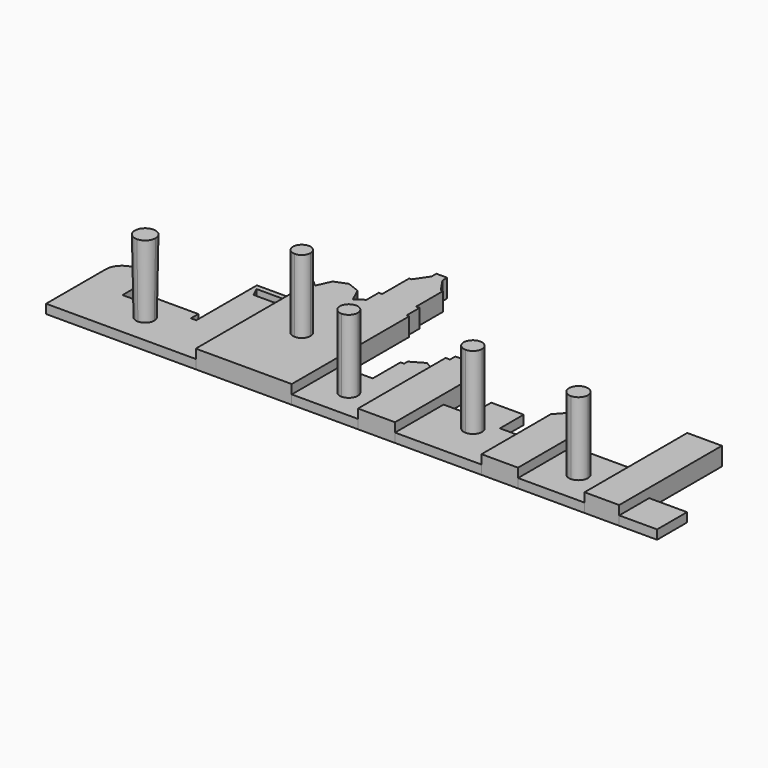
from build123d import *

# Parameters (mm, degrees)
F1_DEPTH = 3.175
F2_DEPTH = 1.5875
F0_W     = 5.639936775
F0_H     = 10.5457017198
F0_W_2   = 4.6999491751
F0_W_3   = 4.6999529004
F0_H_2   = 9.8727531731
F0_W_4   = 11.5607306361
F0_H_3   = 11.8103343993
F0_W_5   = 6.588049233
F0_H_4   = 6.5041691996
F8_DEPTH = 12.7
F8_TAPER = -1
F9_DEPTH = 12.7


with BuildPart() as f1:
    # F0 (on Top) → F1 (new body)
    with BuildSketch(Plane.XY):
        Polygon((34.7140654922, 25.5283378065), (34.7140654922, 0), (42.703974992, 0), (42.703974992, 10.5457017198), (42.703974992, 25.5283378065), (42.2610007226, 25.5283378065), (42.2610007226, 28.3491015434), (41.6635014117, 28.3491015434), (41.6635014117, 34.2090092599), (41.2480793893, 34.2090092599), (39.6537408233, 36.570508033), (39.6537408233, 37.602443248), (38.7090202421, 37.602443248), (37.7642996609, 37.602443248), (37.7642996609, 36.570508033), (36.1699610949, 34.2090092599), (35.7545390725, 34.2090092599), (35.7545390725, 28.3491015434), (35.1570397615, 28.3491015434), (35.1570397615, 25.5283378065), align=None)
        Polygon((26.0191634297, 22.0926180482), (26.0191634297, 0), (34.7140654922, 0), (34.7140654922, 25.5283378065), (33.641166985, 24.588348344), (32.5249303132, 27.027560398), (30.3666144609, 27.8783105314), (28.2082986087, 27.027560398), (27.0920619369, 24.588348344), (26.0191634297, 25.5283378065), align=None)
    extrude(amount=F1_DEPTH)


with BuildPart() as f1b:
    # F0 (on Top) → F1, piece 2 (new body)
    with BuildSketch(Plane.XY):
        Polygon((75.7002681494, 9.8727531731), (75.7002681494, 0), (82.0451974869, 0), (82.0451974869, 11.8103343993), (82.0451974869, 15.0426970795), (78.8727328181, 18.6240728945), (75.7002681494, 15.0426970795), align=None)
    extrude(amount=F1_DEPTH)


with BuildPart() as f1c:
    # F0 (on Top) → F1, piece 3 (new body)
    with BuildSketch(Plane.XY):
        Polygon((93.605928123, 11.8103343993), (93.605928123, 0), (99.6332839131, 0), (99.6332839131, 6.5041691996), (99.6332839131, 22.3209001124), (93.605928123, 22.3209001124), align=None)
    extrude(amount=F1_DEPTH)


with BuildPart() as f1d:
    # F0 (on Top) → F1, piece 4 (new body)
    with BuildSketch(Plane.XY):
        Polygon((54.2188473046, 15.0426970795), (54.2188473046, 0), (60.6604330242, 0), (60.6604330242, 10.5457017198), (60.6604330242, 15.0426970795), (60.6604330242, 19.051130861), (59.905834496, 19.051130861), (59.905834496, 20.2126391232), (54.9734458327, 20.2126391232), (54.9734458327, 19.051130861), (54.2188473046, 19.051130861), align=None)
    extrude(amount=F1_DEPTH)


with BuildPart() as f2:
    # F0 (on Top) → F2 (new body)
    with BuildSketch(Plane.XY):
        with BuildLine():
            Line((0, 12.9277203232), (0, 0))
            Line((0, 0), (5.3393961862, 0))
            Line((5.3393961862, 0), (6.514382083, 0))
            Line((6.514382083, 0), (8.6293583736, 0))
            Line((8.6293583736, 0), (16.6192688048, 0))
            Line((16.6192688048, 0), (18.0292539299, 0))
            Line((18.0292539299, 0), (18.9692433923, 0))
            Line((18.9692433923, 0), (26.0191634297, 0))
            Line((26.0191634297, 0), (26.0191634297, 22.0926180482))
            Line((26.0191634297, 22.0926180482), (18.9692433923, 22.0926180482))
            Line((18.9692433923, 22.0926180482), (18.9692433923, 8.9327655733))
            Line((18.9692433923, 8.9327655733), (18.0292539299, 8.9327655733))
            Line((18.0292539299, 8.9327655733), (18.0292539299, 10.5457017198))
            Line((18.0292539299, 10.5457017198), (8.6293583736, 10.5457017198))
            Line((8.6293583736, 10.5457017198), (8.6293583736, 8.4627699107))
            Line((8.6293583736, 8.4627699107), (6.514382083, 8.4627699107))
            Line((6.514382083, 8.4627699107), (6.514382083, 12.9277203232))
            ThreePointArc((6.514382083, 12.9277203232), (5.530064061, 15.0818741703), (3.2571910415, 15.7476887107))
            ThreePointArc((3.2571910415, 15.7476887107), (0.984318022, 15.0818741703), (0, 12.9277203232))
        make_face()
        Polygon((20.3642528504, 19.6101777256), (19.593283534, 21.2151966989), (25.4579409957, 21.2151966989), (24.6869716793, 19.6101777256), align=None, mode=Mode.SUBTRACT)
    extrude(amount=F2_DEPTH)

    # F3 (on face) → F8 (join)
    with BuildSketch(Plane.XY.offset(1.5875)):
        with BuildLine():
            ThreePointArc((13.0095817149, 6.8557492698), (11.426683305, 5.2728508599), (13.0095817149, 3.68995245))
            ThreePointArc((13.0095817149, 3.68995245), (14.1288599144, 4.1535726604), (14.5924801248, 5.2728508599))
            ThreePointArc((14.5924801248, 5.2728508599), (14.1288599144, 6.3921290595), (13.0095817149, 6.8557492698))
        make_face()
    extrude(amount=F8_DEPTH, taper=F8_TAPER)


with BuildPart() as f2b:
    # F0 (on Top) → F2, piece 2 (new body)
    with BuildSketch(Plane.XY):
        with Locations((45.5239433795, 5.2728508599)):
            Rectangle(F0_W, F0_H)
        Polygon((48.343911767, 10.5457017198), (48.343911767, 0), (54.2188473046, 0), (54.2188473046, 15.0426970795), (54.1941193212, 15.0426970795), (54.1941193212, 16.6012711681), (53.5775407698, 16.6012711681), (53.5775407698, 17.3716027477), (51.2690155441, 18.6972189695), (48.9604903184, 17.3716027477), (48.9604903184, 16.6012711681), (48.343911767, 16.6012711681), (48.343911767, 15.0426970795), align=None)
    extrude(amount=F2_DEPTH)


with BuildPart() as f2c:
    # F0 (on Top) → F2, piece 3 (new body)
    with BuildSketch(Plane.XY):
        Polygon((65.3603821993, 10.5457017198), (65.3603821993, 0), (71.000315249, 0), (71.000315249, 9.8727531731), (71.000315249, 15.0426970795), (65.3603821993, 15.0426970795), align=None)
        with Locations((63.0104076117, 5.2728508599)):
            Rectangle(F0_W_2, F0_H)
        with Locations((73.3502916992, 4.9363765866)):
            Rectangle(F0_W_3, F0_H_2)
    extrude(amount=F2_DEPTH)


with BuildPart() as f2d:
    # F0 (on Top) → F2, piece 4 (new body)
    with BuildSketch(Plane.XY):
        with Locations((87.8255628049, 5.9051671997)):
            Rectangle(F0_W_4, F0_H_3)
    extrude(amount=F2_DEPTH)


with BuildPart() as f2e:
    # F0 (on Top) → F2, piece 5 (new body)
    with BuildSketch(Plane.XY):
        with Locations((102.9273085296, 3.2520845998)):
            Rectangle(F0_W_5, F0_H_4)
    extrude(amount=F2_DEPTH)


with BuildPart() as f9:
    # F4 (on face) → F9 (new body)
    with BuildSketch(Plane.XY.offset(3.175)):
        with BuildLine():
            ThreePointArc((34.3615692109, 14.1366351541), (32.8346881725, 12.6097541157), (34.3615692109, 11.0828730774))
            ThreePointArc((34.3615692109, 11.0828730774), (35.4412371472, 11.5300861795), (35.8884502492, 12.6097541157))
            ThreePointArc((35.8884502492, 12.6097541157), (35.4412371472, 13.689422052), (34.3615692109, 14.1366351541))
        make_face()
    extrude(amount=F9_DEPTH)


with BuildPart() as f9b:
    # F5 (on face) → F9, piece 2 (new body)
    with BuildSketch(Plane.XY.offset(1.5875)):
        with BuildLine():
            ThreePointArc((48.3852341409, 6.8369721577), (46.8385401599, 5.2554235431), (48.4200887745, 3.7087295621))
            ThreePointArc((48.4200887745, 3.7087295621), (49.5148753028, 4.1729601798), (49.9668798393, 5.2728508599))
            ThreePointArc((49.9668798393, 5.2728508599), (49.5025521377, 6.3850647051), (48.3852341409, 6.8369721577))
        make_face()
    extrude(amount=F9_DEPTH)


with BuildPart() as f9c:
    # F6 (on face) → F9, piece 3 (new body)
    with BuildSketch(Plane.XY.offset(1.5875)):
        with BuildLine():
            ThreePointArc((68.1803487241, 9.1075093619), (66.5941879019, 7.5213485397), (68.1803487241, 5.9351877175))
            ThreePointArc((68.1803487241, 5.9351877175), (69.3019337976, 6.3997634663), (69.7665095463, 7.5213485397))
            ThreePointArc((69.7665095463, 7.5213485397), (69.3019337976, 8.6429336132), (68.1803487241, 9.1075093619))
        make_face()
    extrude(amount=F9_DEPTH)


with BuildPart() as f9d:
    # F7 (on face) → F9, piece 4 (new body)
    with BuildSketch(Plane.XY.offset(1.5875)):
        with BuildLine():
            ThreePointArc((87.8255628049, 7.5594574065), (86.1712725981, 5.9051671997), (87.8255628049, 4.2508769928))
            ThreePointArc((87.8255628049, 4.2508769928), (88.9953226282, 4.7354073764), (89.4798530118, 5.9051671997))
            ThreePointArc((89.4798530118, 5.9051671997), (88.9953226282, 7.074927023), (87.8255628049, 7.5594574065))
        make_face()
    extrude(amount=F9_DEPTH)


solid = Compound([f1.part, f1b.part, f1c.part, f1d.part, f2.part, f2b.part, f2c.part, f2d.part, f2e.part, f9.part, f9b.part, f9c.part, f9d.part])
